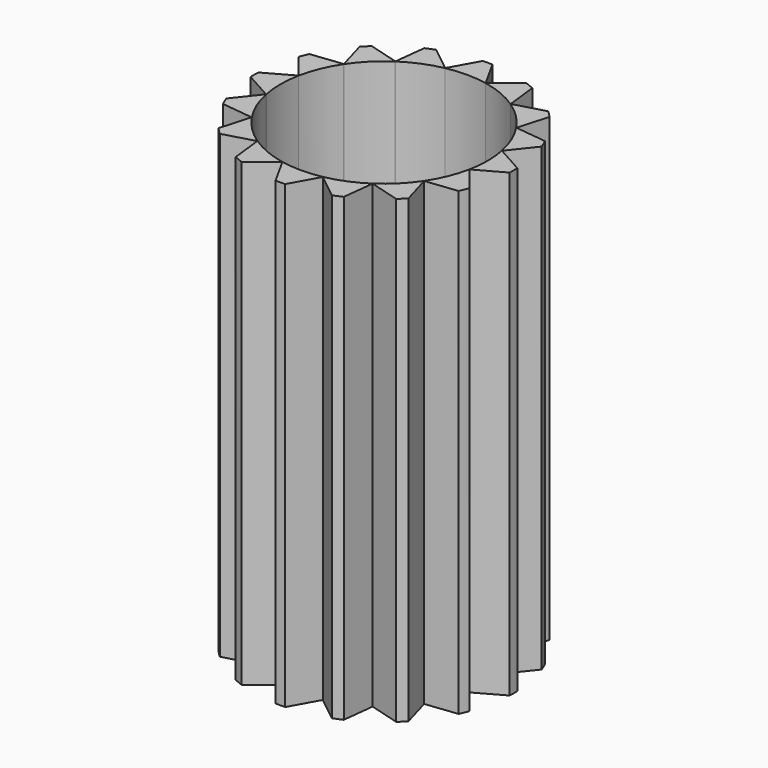
from build123d import *

# Parameters (mm, degrees)
F1_DEPTH = 25.4


with BuildPart() as f1:
    # F0 (on Top) → F1 (new body)
    with BuildSketch(Plane.XY):
        with BuildLine():
            Line((1.1166946055, 5.6140031267), (0.2654481758, 7.145170906))
            ThreePointArc((0.2654481758, 7.145170906), (-6.1331e-06, 7.1501), (-0.2654604336, 7.1451704506))
            Line((-0.2654604336, 7.1451704506), (-1.1166946958, 5.6140031087))
            Line((-1.1166946958, 5.6140031087), (-1.107454392, 5.6066718978))
            ThreePointArc((-1.107454392, 5.6066718978), (0, 5.715), (1.107454392, 5.6066718978))
            Line((1.107454392, 5.6066718978), (1.1166946055, 5.6140031267))
        make_face()
        with BuildLine():
            Line((2.4890848916, 6.7028640455), (1.1166946055, 5.6140031267))
            Line((1.1166946055, 5.6140031267), (1.122426, 5.6036938598))
            ThreePointArc((1.122426, 5.6036938598), (2.187035816, 5.2799715283), (3.168734892, 4.7560849639))
            Line((3.168734892, 4.7560849639), (3.1800772759, 4.7593220597))
            Line((3.1800772759, 4.7593220597), (2.9795806637, 6.4996945373))
            ThreePointArc((2.9795806637, 6.4996945373), (2.7362191435, 6.6058333924), (2.4890848916, 6.7028640455))
        make_face()
        with BuildLine():
            Line((1.122426, 5.6036938598), (1.1166946055, 5.6140031267))
            Line((1.1166946055, 5.6140031267), (1.107454392, 5.6066718978))
            ThreePointArc((1.107454392, 5.6066718978), (1.1149411903, 5.6051878775), (1.122426, 5.6036938598))
        make_face()
        with BuildLine():
            Line((-1.107454392, 5.6066718978), (-1.1166946958, 5.6140031087))
            Line((-1.1166946958, 5.6140031087), (-1.122426, 5.6036938598))
            ThreePointArc((-1.122426, 5.6036938598), (-1.1149411903, 5.6051878775), (-1.107454392, 5.6066718978))
        make_face()
        with BuildLine():
            Line((-1.122426, 5.6036938598), (-1.1166946958, 5.6140031087))
            Line((-1.1166946958, 5.6140031087), (-2.4890963905, 6.7028597754))
            ThreePointArc((-2.4890963905, 6.7028597754), (-2.736230476, 6.6058286984), (-2.9795918141, 6.4996894258))
            Line((-2.9795918141, 6.4996894258), (-3.1800773524, 4.7593220085))
            Line((-3.1800773524, 4.7593220085), (-3.168734892, 4.7560849639))
            ThreePointArc((-3.168734892, 4.7560849639), (-2.187035816, 5.2799715283), (-1.122426, 5.6036938598))
        make_face()
        with BuildLine():
            Line((3.1800772759, 4.7593220597), (3.168734892, 4.7560849639))
            ThreePointArc((3.168734892, 4.7560849639), (3.1750838817, 4.7518488343), (3.1814272084, 4.7476042293))
            Line((3.1814272084, 4.7476042293), (3.1800772759, 4.7593220597))
        make_face()
        with BuildLine():
            ThreePointArc((-3.1814272084, 4.7476042293), (-3.1750838817, 4.7518488343), (-3.168734892, 4.7560849639))
            Line((-3.168734892, 4.7560849639), (-3.1800773524, 4.7593220085))
            Line((-3.1800773524, 4.7593220085), (-3.1814272084, 4.7476042293))
        make_face()
        with BuildLine():
            Line((3.1800772759, 4.7593220597), (3.1814272084, 4.7476042293))
            ThreePointArc((3.1814272084, 4.7476042293), (4.0411152545, 4.0411152545), (4.7476042293, 3.1814272084))
            Line((4.7476042293, 3.1814272084), (4.7593220085, 3.1800773524))
            Line((4.7593220085, 3.1800773524), (5.2400990056, 4.8646985952))
            ThreePointArc((5.2400990056, 4.8646985952), (5.0558798594, 5.0558885329), (4.8646896057, 5.2401073511))
            Line((4.8646896057, 5.2401073511), (3.1800772759, 4.7593220597))
        make_face()
        with BuildLine():
            ThreePointArc((-4.7476042293, 3.1814272084), (-4.0411152545, 4.0411152545), (-3.1814272084, 4.7476042293))
            Line((-3.1814272084, 4.7476042293), (-3.1800773524, 4.7593220085))
            Line((-3.1800773524, 4.7593220085), (-4.8646985952, 5.2400990056))
            ThreePointArc((-4.8646985952, 5.2400990056), (-5.0558885329, 5.0558798594), (-5.2401073511, 4.8646896057))
            Line((-5.2401073511, 4.8646896057), (-4.7593220597, 3.1800772759))
            Line((-4.7593220597, 3.1800772759), (-4.7476042293, 3.1814272084))
        make_face()
        with BuildLine():
            Line((4.7593220085, 3.1800773524), (4.7476042293, 3.1814272084))
            ThreePointArc((4.7476042293, 3.1814272084), (4.7518488343, 3.1750838817), (4.7560849639, 3.168734892))
            Line((4.7560849639, 3.168734892), (4.7593220085, 3.1800773524))
        make_face()
        with BuildLine():
            ThreePointArc((-4.7560849639, 3.168734892), (-4.7518488343, 3.1750838817), (-4.7476042293, 3.1814272084))
            Line((-4.7476042293, 3.1814272084), (-4.7593220597, 3.1800772759))
            Line((-4.7593220597, 3.1800772759), (-4.7560849639, 3.168734892))
        make_face()
        with BuildLine():
            Line((4.7593220085, 3.1800773524), (4.7560849639, 3.168734892))
            ThreePointArc((4.7560849639, 3.168734892), (5.2799715283, 2.187035816), (5.6036938598, 1.122426))
            Line((5.6036938598, 1.122426), (5.6140031087, 1.1166946958))
            Line((5.6140031087, 1.1166946958), (6.7028597754, 2.4890963905))
            ThreePointArc((6.7028597754, 2.4890963905), (6.6058286984, 2.736230476), (6.4996894258, 2.9795918141))
            Line((6.4996894258, 2.9795918141), (4.7593220085, 3.1800773524))
        make_face()
        with BuildLine():
            ThreePointArc((-5.6036938598, 1.122426), (-5.2799715283, 2.187035816), (-4.7560849639, 3.168734892))
            Line((-4.7560849639, 3.168734892), (-4.7593220597, 3.1800772759))
            Line((-4.7593220597, 3.1800772759), (-6.4996945373, 2.9795806637))
            ThreePointArc((-6.4996945373, 2.9795806637), (-6.6058333924, 2.7362191435), (-6.7028640455, 2.4890848916))
            Line((-6.7028640455, 2.4890848916), (-5.6140031267, 1.1166946055))
            Line((-5.6140031267, 1.1166946055), (-5.6036938598, 1.122426))
        make_face()
        with BuildLine():
            Line((5.6140031087, 1.1166946958), (5.6036938598, 1.122426))
            ThreePointArc((5.6036938598, 1.122426), (5.6051878775, 1.1149411903), (5.6066718978, 1.107454392))
            Line((5.6066718978, 1.107454392), (5.6140031087, 1.1166946958))
        make_face()
        with BuildLine():
            ThreePointArc((-5.6066718978, 1.107454392), (-5.6051878775, 1.1149411903), (-5.6036938598, 1.122426))
            Line((-5.6036938598, 1.122426), (-5.6140031267, 1.1166946055))
            Line((-5.6140031267, 1.1166946055), (-5.6066718978, 1.107454392))
        make_face()
        with BuildLine():
            Line((5.6140031087, 1.1166946958), (5.6066718978, 1.107454392))
            ThreePointArc((5.6066718978, 1.107454392), (5.6878535009, 0.5563699777), (5.715, 0))
            ThreePointArc((5.715, 0), (5.6878535009, -0.5563699777), (5.6066718978, -1.107454392))
            Line((5.6066718978, -1.107454392), (5.6140031267, -1.1166946055))
            Line((5.6140031267, -1.1166946055), (7.145170906, -0.2654481758))
            ThreePointArc((7.145170906, -0.2654481758), (7.1501, 6.1331e-06), (7.1451704506, 0.2654604336))
            Line((7.1451704506, 0.2654604336), (5.6140031087, 1.1166946958))
        make_face()
        with BuildLine():
            ThreePointArc((-5.6066718978, -1.107454392), (-5.715, 0), (-5.6066718978, 1.107454392))
            Line((-5.6066718978, 1.107454392), (-5.6140031267, 1.1166946055))
            Line((-5.6140031267, 1.1166946055), (-7.145170906, 0.2654481758))
            ThreePointArc((-7.145170906, 0.2654481758), (-7.1501, -6.1331e-06), (-7.1451704506, -0.2654604336))
            Line((-7.1451704506, -0.2654604336), (-5.6140031087, -1.1166946958))
            Line((-5.6140031087, -1.1166946958), (-5.6066718978, -1.107454392))
        make_face()
        with BuildLine():
            ThreePointArc((-5.6036938598, -1.122426), (-5.6051878775, -1.1149411903), (-5.6066718978, -1.107454392))
            Line((-5.6066718978, -1.107454392), (-5.6140031087, -1.1166946958))
            Line((-5.6140031087, -1.1166946958), (-5.6036938598, -1.122426))
        make_face()
        with BuildLine():
            Line((5.6140031267, -1.1166946055), (5.6066718978, -1.107454392))
            ThreePointArc((5.6066718978, -1.107454392), (5.6051878775, -1.1149411903), (5.6036938598, -1.122426))
            Line((5.6036938598, -1.122426), (5.6140031267, -1.1166946055))
        make_face()
        with BuildLine():
            ThreePointArc((-4.7560849639, -3.168734892), (-5.2799715283, -2.187035816), (-5.6036938598, -1.122426))
            Line((-5.6036938598, -1.122426), (-5.6140031087, -1.1166946958))
            Line((-5.6140031087, -1.1166946958), (-6.7028597754, -2.4890963905))
            ThreePointArc((-6.7028597754, -2.4890963905), (-6.6058286984, -2.736230476), (-6.4996894258, -2.9795918141))
            Line((-6.4996894258, -2.9795918141), (-4.7593220085, -3.1800773524))
            Line((-4.7593220085, -3.1800773524), (-4.7560849639, -3.168734892))
        make_face()
        with BuildLine():
            Line((5.6140031267, -1.1166946055), (5.6036938598, -1.122426))
            ThreePointArc((5.6036938598, -1.122426), (5.2799715283, -2.187035816), (4.7560849639, -3.168734892))
            Line((4.7560849639, -3.168734892), (4.7593220597, -3.1800772759))
            Line((4.7593220597, -3.1800772759), (6.4996945373, -2.9795806637))
            ThreePointArc((6.4996945373, -2.9795806637), (6.6058333924, -2.7362191435), (6.7028640455, -2.4890848916))
            Line((6.7028640455, -2.4890848916), (5.6140031267, -1.1166946055))
        make_face()
        with BuildLine():
            ThreePointArc((-4.7476042293, -3.1814272084), (-4.7518488343, -3.1750838817), (-4.7560849639, -3.168734892))
            Line((-4.7560849639, -3.168734892), (-4.7593220085, -3.1800773524))
            Line((-4.7593220085, -3.1800773524), (-4.7476042293, -3.1814272084))
        make_face()
        with BuildLine():
            Line((4.7593220597, -3.1800772759), (4.7560849639, -3.168734892))
            ThreePointArc((4.7560849639, -3.168734892), (4.7518488343, -3.1750838817), (4.7476042293, -3.1814272084))
            Line((4.7476042293, -3.1814272084), (4.7593220597, -3.1800772759))
        make_face()
        with BuildLine():
            ThreePointArc((-3.1814272084, -4.7476042293), (-4.0411152545, -4.0411152545), (-4.7476042293, -3.1814272084))
            Line((-4.7476042293, -3.1814272084), (-4.7593220085, -3.1800773524))
            Line((-4.7593220085, -3.1800773524), (-5.2400990056, -4.8646985952))
            ThreePointArc((-5.2400990056, -4.8646985952), (-5.0558798594, -5.0558885329), (-4.8646896057, -5.2401073511))
            Line((-4.8646896057, -5.2401073511), (-3.1800772759, -4.7593220597))
            Line((-3.1800772759, -4.7593220597), (-3.1814272084, -4.7476042293))
        make_face()
        with BuildLine():
            Line((4.7593220597, -3.1800772759), (4.7476042293, -3.1814272084))
            ThreePointArc((4.7476042293, -3.1814272084), (4.0411152545, -4.0411152545), (3.1814272084, -4.7476042293))
            Line((3.1814272084, -4.7476042293), (3.1800773524, -4.7593220085))
            Line((3.1800773524, -4.7593220085), (4.8646985952, -5.2400990056))
            ThreePointArc((4.8646985952, -5.2400990056), (5.0558885329, -5.0558798594), (5.2401073511, -4.8646896057))
            Line((5.2401073511, -4.8646896057), (4.7593220597, -3.1800772759))
        make_face()
        with BuildLine():
            ThreePointArc((-3.168734892, -4.7560849639), (-3.1750838817, -4.7518488343), (-3.1814272084, -4.7476042293))
            Line((-3.1814272084, -4.7476042293), (-3.1800772759, -4.7593220597))
            Line((-3.1800772759, -4.7593220597), (-3.168734892, -4.7560849639))
        make_face()
        with BuildLine():
            Line((3.1800773524, -4.7593220085), (3.1814272084, -4.7476042293))
            ThreePointArc((3.1814272084, -4.7476042293), (3.1750838817, -4.7518488343), (3.168734892, -4.7560849639))
            Line((3.168734892, -4.7560849639), (3.1800773524, -4.7593220085))
        make_face()
        with BuildLine():
            ThreePointArc((-1.122426, -5.6036938598), (-2.187035816, -5.2799715283), (-3.168734892, -4.7560849639))
            Line((-3.168734892, -4.7560849639), (-3.1800772759, -4.7593220597))
            Line((-3.1800772759, -4.7593220597), (-2.9795806637, -6.4996945373))
            ThreePointArc((-2.9795806637, -6.4996945373), (-2.7362191435, -6.6058333924), (-2.4890848916, -6.7028640455))
            Line((-2.4890848916, -6.7028640455), (-1.1166946055, -5.6140031267))
            Line((-1.1166946055, -5.6140031267), (-1.122426, -5.6036938598))
        make_face()
        with BuildLine():
            Line((3.1800773524, -4.7593220085), (3.168734892, -4.7560849639))
            ThreePointArc((3.168734892, -4.7560849639), (2.187035816, -5.2799715283), (1.122426, -5.6036938598))
            Line((1.122426, -5.6036938598), (1.1166946958, -5.6140031087))
            Line((1.1166946958, -5.6140031087), (2.4890963905, -6.7028597754))
            ThreePointArc((2.4890963905, -6.7028597754), (2.736230476, -6.6058286984), (2.9795918141, -6.4996894258))
            Line((2.9795918141, -6.4996894258), (3.1800773524, -4.7593220085))
        make_face()
        with BuildLine():
            ThreePointArc((-1.107454392, -5.6066718978), (-1.1149411903, -5.6051878775), (-1.122426, -5.6036938598))
            Line((-1.122426, -5.6036938598), (-1.1166946055, -5.6140031267))
            Line((-1.1166946055, -5.6140031267), (-1.107454392, -5.6066718978))
        make_face()
        with BuildLine():
            Line((1.1166946958, -5.6140031087), (1.122426, -5.6036938598))
            ThreePointArc((1.122426, -5.6036938598), (1.1149411903, -5.6051878775), (1.107454392, -5.6066718978))
            Line((1.107454392, -5.6066718978), (1.1166946958, -5.6140031087))
        make_face()
        with BuildLine():
            ThreePointArc((1.107454392, -5.6066718978), (0, -5.715), (-1.107454392, -5.6066718978))
            Line((-1.107454392, -5.6066718978), (-1.1166946055, -5.6140031267))
            Line((-1.1166946055, -5.6140031267), (-0.2654481758, -7.145170906))
            ThreePointArc((-0.2654481758, -7.145170906), (6.1331e-06, -7.1501), (0.2654604336, -7.1451704506))
            Line((0.2654604336, -7.1451704506), (1.1166946958, -5.6140031087))
            Line((1.1166946958, -5.6140031087), (1.107454392, -5.6066718978))
        make_face()
    extrude(amount=F1_DEPTH)


solid = f1.part
